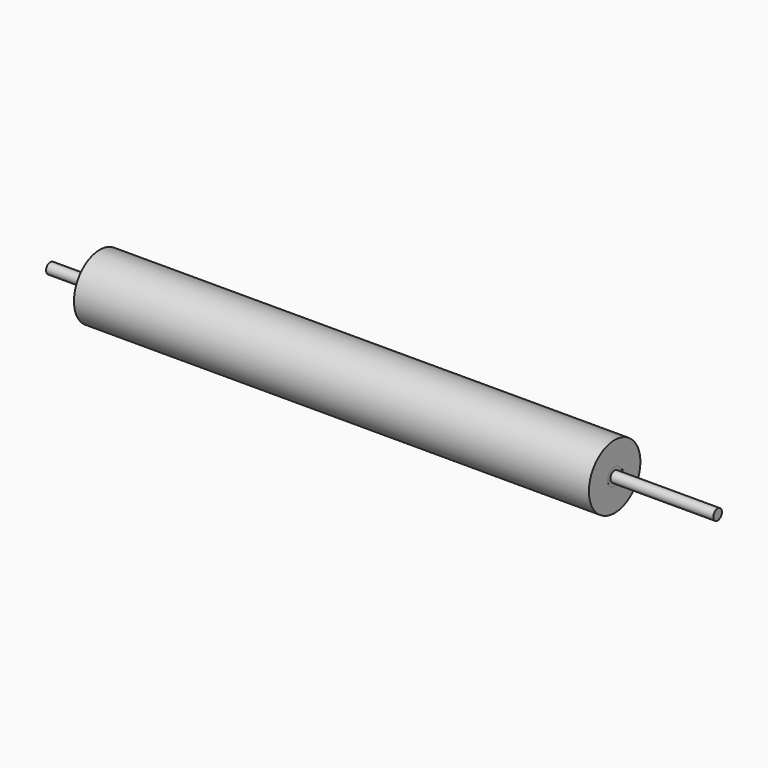
from build123d import *

# Parameters (mm, degrees)
F0_R       = 75
F1_DEPTH   = 600
F2_R       = 20
F3_DEPTH   = 100
F4_R       = 20
F5_DEPTH   = 100
F6_W       = 4.221216
F6_H       = 12
F7_DEPTH   = 75
F8_R       = 20
F9_DEPTH   = 100
F10_R      = 12.5
F11_DEPTH  = 115
F14_DEPTH  = 8.8
F11_FACE_R = 12.5
F15_DEPTH  = 125
F18_DEPTH  = 3.3


with BuildPart() as f1:
    # F0 (on Right) → F1 (new body, symmetric)
    with BuildSketch(Plane.YZ):
        Circle(F0_R)
    extrude(amount=F1_DEPTH, both=True)

    # F2 (on face) → F3 (cut)
    with BuildSketch(Plane(origin=(-600, 0, 0), x_dir=(0, -1, 0), z_dir=(-1, 0, 0))):
        Circle(F2_R)
    extrude(amount=-F3_DEPTH, mode=Mode.SUBTRACT)

    # F4 (on face) → F5 (cut)
    with BuildSketch(Plane.YZ.offset(600)):
        Circle(F4_R)
    extrude(amount=-F5_DEPTH, mode=Mode.SUBTRACT)

    # F6 (on face) → F7 (cut)
    with BuildSketch(Plane.YZ.offset(600)):
        with Locations((21.189392, 0)):
            Rectangle(F6_W, F6_H)
    extrude(amount=-F7_DEPTH, mode=Mode.SUBTRACT)


with BuildPart() as f9:
    # F8 (on face) → F9 (new body)
    with BuildSketch(Plane.YZ.offset(500)):
        Circle(F8_R)
    extrude(amount=F9_DEPTH)

    # F10 (on face) → F11 (join)
    with BuildSketch(Plane.YZ.offset(600)):
        Circle(F10_R)
    extrude(amount=F11_DEPTH)


with BuildPart() as f12_1:
    # F12: instance of F9
    add(f9.part.mirror(Plane.YZ))


with BuildPart() as f14_tool:
    # F13 (on face) → F14 (new body)
    with BuildSketch(Plane.XZ.offset(-23.3)):
        with BuildLine():
            ThreePointArc((525, 6), (519, 0), (525, -6))
            Line((525, -6), (575, -6))
            ThreePointArc((575, -6), (581, 0), (575, 6))
            Line((575, 6), (525, 6))
        make_face()
    extrude(amount=F14_DEPTH)


with BuildPart() as f1_1:
    add(f1.part)

    # F14: cut by f14_tool
    add(f14_tool.part, mode=Mode.SUBTRACT)


with BuildPart() as f9_1:
    add(f9.part)

    # F14: cut by f14_tool
    add(f14_tool.part, mode=Mode.SUBTRACT)

    # F11_face (on face) → F15 (join)
    with BuildSketch(Plane.YZ.offset(715)):
        Circle(F11_FACE_R)
    extrude(amount=F15_DEPTH)

    # F17 (on offset) → F18 (cut)
    with BuildSketch(Plane.XZ.offset(-12.5)):
        with BuildLine():
            ThreePointArc((825, -4), (829, 0), (825, 4))
            Line((825, 4), (750, 4))
            ThreePointArc((750, 4), (746, 0), (750, -4))
            Line((750, -4), (825, -4))
        make_face()
    extrude(amount=F18_DEPTH, mode=Mode.SUBTRACT)


solid = Compound([f12_1.part, f1_1.part, f9_1.part])
